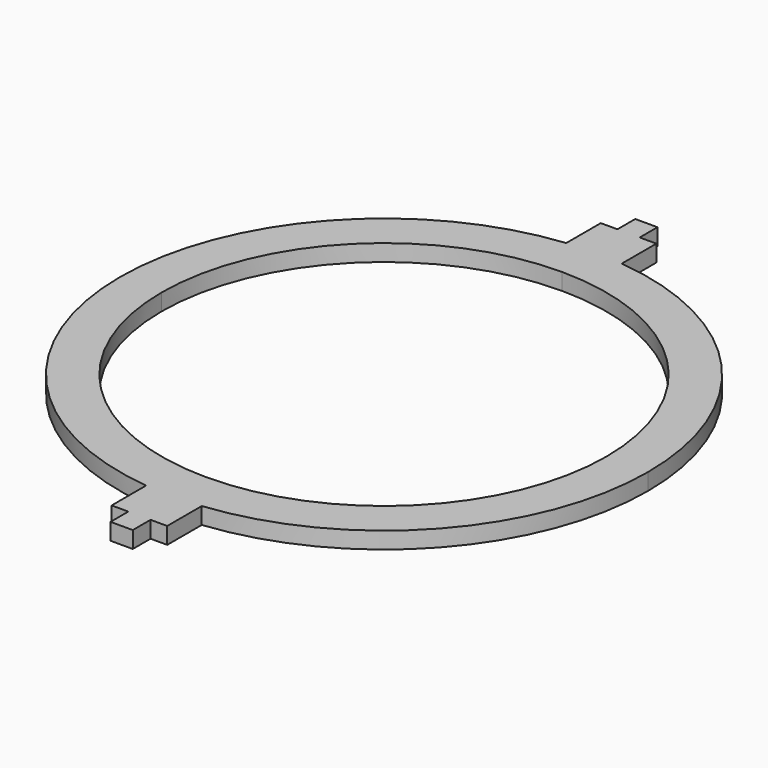
from build123d import *

# Parameters (mm, degrees)
PAD_DEPTH            = 3
PAD_MIRRORED_2_DEPTH = 3


with BuildPart() as part:
    # Sketch → Pad (new body)
    with BuildSketch(Plane.XY):
        with BuildLine():
            ThreePointArc((47.5, 0), (35.311117, 31.770663), (5, 47.236109))
            Line((5, 55), (5, 47.236109))
            Line((2, 55), (5, 55))
            Line((2, 55), (2, 59))
            Line((2, 59), (0, 59))
            Line((0, 40), (0, 59))
            ThreePointArc((40, 0), (28.284271, 28.284271), (0, 40))
            Line((40, 0), (47.5, 0))
        make_face()
    pad = extrude(amount=PAD_DEPTH)

    # Sketch Mirrored 2 → Pad Mirrored 2 (add)
    with BuildSketch(Plane(origin=(0, 0, 0), x_dir=(-1, 0, 0), z_dir=(0, 0, -1))):
        with BuildLine():
            ThreePointArc((47.5, 0), (35.311117, 31.770663), (5, 47.236109))
            Line((5, 55), (5, 47.236109))
            Line((2, 55), (5, 55))
            Line((2, 55), (2, 59))
            Line((2, 59), (0, 59))
            Line((0, 40), (0, 59))
            ThreePointArc((40, 0), (28.284271, 28.284271), (0, 40))
            Line((40, 0), (47.5, 0))
        make_face()
    pad_mirrored_2 = extrude(amount=-PAD_MIRRORED_2_DEPTH)

    # Mirrored001: Pad, Pad Mirrored 2 across Sketch H_Axis
    add(pad.mirror(Plane.ZX))
    add(pad_mirrored_2.mirror(Plane.ZX))


solid = part.part
